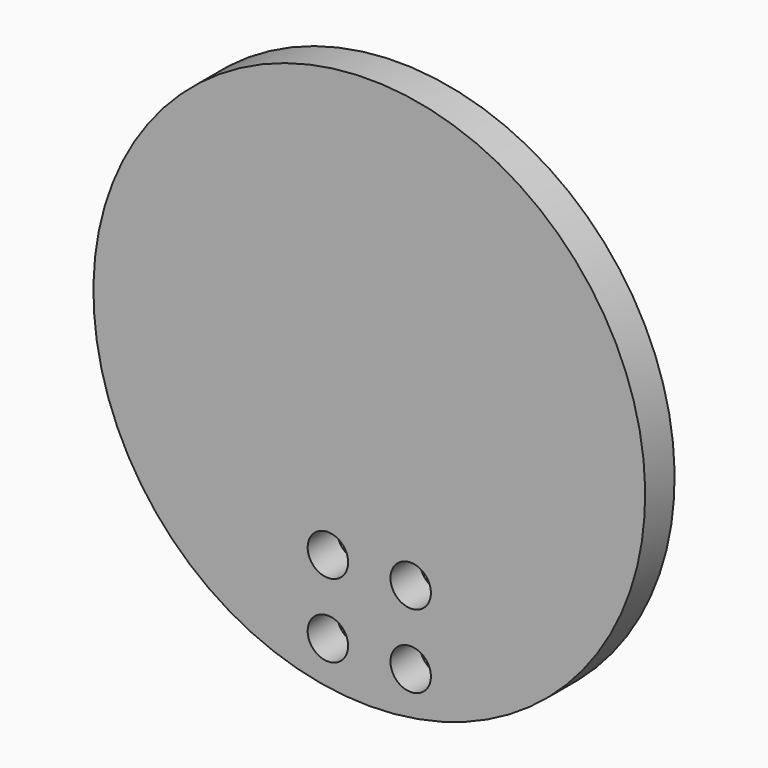
from build123d import *

# Parameters (mm, degrees)
CYLINDER043_R                 = 2.2
CYLINDER043_DEPTH             = 26
CYLINDER043_ROLL_ANGLE        = -90
ARRAY010_X_COUNT              = 2
ARRAY010_X_PITCH              = 8
ARRAY010_Z_COUNT              = 2
ARRAY010_Z_PITCH              = 9
CYLINDER041_R                 = 30
CYLINDER041_DEPTH             = 4
CYLINDER041_ROLL_ANGLE        = -90
PART_MIRRORING003_PITCH_ANGLE = 90


with BuildPart() as obj1:
    # Cylinder043 → Cylinder043 (new body)
    with BuildSketch(Plane.XY):
        Circle(CYLINDER043_R)
    extrude(amount=CYLINDER043_DEPTH)


with BuildPart() as obj1_1:
    # Cylinder043 roll: moved
    add(obj1.part.rotate(Axis((0, 0, 0), (1, 0, 0)), CYLINDER043_ROLL_ANGLE))


with BuildPart() as obj1_2:
    # Cylinder043 placement: moved
    add(obj1_1.part.moved(Location((202, 0, 4))))

    # Array010 X: obj1_2


with BuildPart() as obj1_3:
    add(obj1_2.part)
    with Locations(*[(i * ARRAY010_X_PITCH, 0, 0) for i in range(1, ARRAY010_X_COUNT)]):
        add(obj1_2.part)

    # Array010 Z: obj1_2


with BuildPart() as obj1_4:
    add(obj1_3.part)
    with Locations(*[(0, 0, i * ARRAY010_Z_PITCH) for i in range(1, ARRAY010_Z_COUNT)]):
        add(obj1_3.part)


with BuildPart() as obj2:
    # Cylinder041 → Cylinder041 (new body)
    with BuildSketch(Plane.XY):
        Circle(CYLINDER041_R)
    extrude(amount=CYLINDER041_DEPTH)


with BuildPart() as obj2_1:
    # Cylinder041 roll: moved
    add(obj2.part.rotate(Axis((0, 0, 0), (1, 0, 0)), CYLINDER041_ROLL_ANGLE))


with BuildPart() as obj2_2:
    # Cylinder041 placement: moved
    add(obj2_1.part.moved(Location((185, 20, 8.5))))

    # Cut026: cut obj1
    add(obj1_4.part, mode=Mode.SUBTRACT)


with BuildPart() as part_mirroring003:
    # Part__Mirroring003: instance of obj2
    add(obj2_2.part.mirror(Plane(origin=(0, 0, 0), x_dir=(1, 0, 0), z_dir=(0, 1, 0))))


with BuildPart() as part_mirroring003_1:
    # Part__Mirroring003 pitch: moved
    add(part_mirroring003.part.rotate(Axis((0, 0, 0), (0, 1, 0)), PART_MIRRORING003_PITCH_ANGLE))


with BuildPart() as part_mirroring003_2:
    # Part__Mirroring003 placement: moved
    add(part_mirroring003_1.part.moved(Location((359, -63, 326))))


solid = part_mirroring003_2.part
